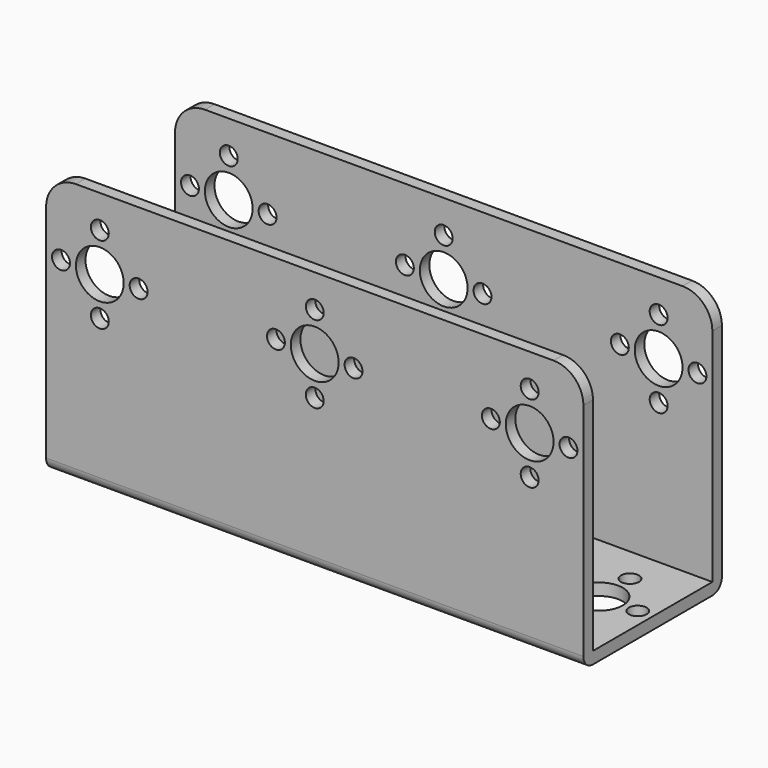
from build123d import *

# Parameters (mm, degrees)
SKETCH_W        = 90
SKETCH_H        = 29
PAD_DEPTH       = 2
SKETCH001_W     = 90
SKETCH001_H     = 2
PAD001_DEPTH    = 42
FILLET_R        = 1.99
SKETCH002_R     = 4
SKETCH002_R_2   = 1.5
POCKET_DEPTH    = 29.001
SKETCH003_R     = 1.5
SKETCH003_R_2   = 4
POCKET001_DEPTH = 5
FILLET001_R     = 5


with BuildPart() as part:
    # Sketch → Pad (new body)
    with BuildSketch(Plane.XY):
        Rectangle(SKETCH_W, SKETCH_H)
    extrude(amount=PAD_DEPTH)

    # Sketch001 (on Face6 of Pad) → Pad001 (join)
    with BuildSketch(Plane.XY.offset(2)):
        with Locations((0, 13.5)):
            Rectangle(SKETCH001_W, SKETCH001_H)
        with Locations((0, -13.5)):
            Rectangle(SKETCH001_W, SKETCH001_H)
    extrude(amount=PAD001_DEPTH)

    # Fillet
    fillet_edges = [part.edges().sort_by_distance(p)[0] for p in [
        (0, 14.5, 0),
        (0, -14.5, 0),
    ]]
    fillet(fillet_edges, radius=FILLET_R)

    # Sketch002 (on Face15 of Fillet) → Pocket (cut, through all)
    with BuildSketch(Plane.XZ.offset(14.5)):
        with Locations((-36, 32)):
            Circle(SKETCH002_R)
        with Locations((-36, 38.5)):
            Circle(SKETCH002_R_2)
        with Locations((-29.5, 32)):
            Circle(SKETCH002_R_2)
        with Locations((-36, 25.5)):
            Circle(SKETCH002_R_2)
        with Locations((-42.5, 32)):
            Circle(SKETCH002_R_2)
        with Locations((36, 32)):
            Circle(SKETCH002_R)
        with Locations((36, 38.5)):
            Circle(SKETCH002_R_2)
        with Locations((29.5, 32)):
            Circle(SKETCH002_R_2)
        with Locations((36, 25.5)):
            Circle(SKETCH002_R_2)
        with Locations((42.5, 32)):
            Circle(SKETCH002_R_2)
        with Locations((0, 32)):
            Circle(SKETCH002_R)
        with Locations((0, 38.5)):
            Circle(SKETCH002_R_2)
        with Locations((6.5, 32)):
            Circle(SKETCH002_R_2)
        with Locations((0, 25.5)):
            Circle(SKETCH002_R_2)
        with Locations((-6.5, 32)):
            Circle(SKETCH002_R_2)
    extrude(amount=-POCKET_DEPTH, mode=Mode.SUBTRACT)

    # Sketch003 (on Face9 of Pocket) → Pocket001 (cut)
    with BuildSketch(Plane(origin=(0, 0, 0), x_dir=(1, 0, 0), z_dir=(0, 0, -1))):
        with Locations((-36, 6.5)):
            Circle(SKETCH003_R)
        with Locations((-36, 0)):
            Circle(SKETCH003_R_2)
        with Locations((-36, -6.5)):
            Circle(SKETCH003_R)
        with Locations((-29.5, 0)):
            Circle(SKETCH003_R)
        with Locations((-42.5, 0)):
            Circle(SKETCH003_R)
        with Locations((36, 6.5)):
            Circle(SKETCH003_R)
        with Locations((36, 0)):
            Circle(SKETCH003_R_2)
        with Locations((36, -6.5)):
            Circle(SKETCH003_R)
        with Locations((29.5, 0)):
            Circle(SKETCH003_R)
        with Locations((42.5, 0)):
            Circle(SKETCH003_R)
        with Locations((0, 6.5)):
            Circle(SKETCH003_R)
        Circle(SKETCH003_R_2)
        with Locations((0, -6.5)):
            Circle(SKETCH003_R)
        with Locations((6.5, 0)):
            Circle(SKETCH003_R)
        with Locations((-6.5, 0)):
            Circle(SKETCH003_R)
    extrude(amount=-POCKET001_DEPTH, mode=Mode.SUBTRACT)

    # Fillet001
    fillet001_edges = [part.edges().sort_by_distance(p)[0] for p in [
        (45, -13.5, 44),
        (45, 13.5, 44),
        (-45, 13.5, 44),
        (-45, -13.5, 44),
    ]]
    fillet(fillet001_edges, radius=FILLET001_R)


solid = part.part
